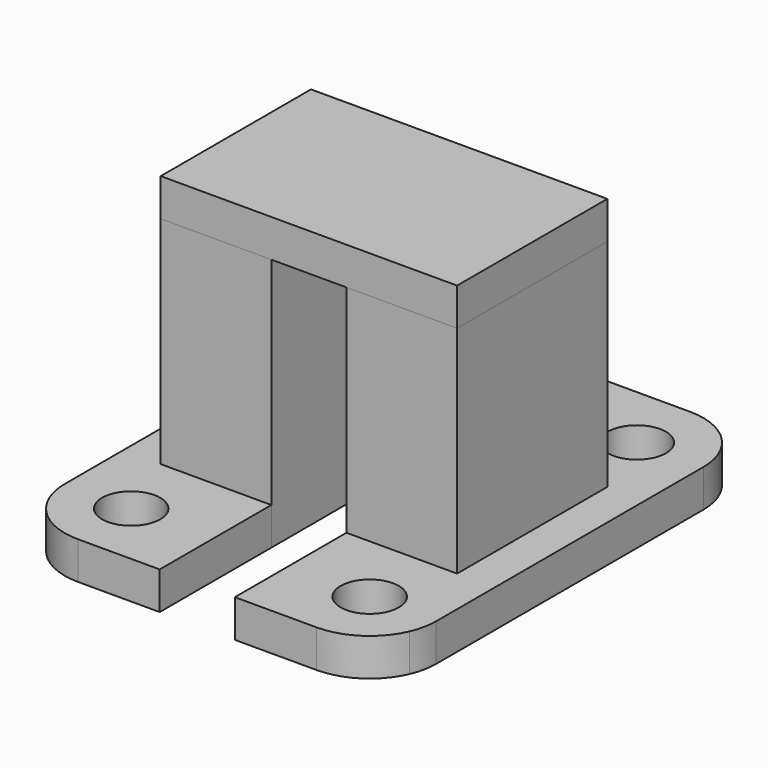
from build123d import *

# Parameters (mm, degrees)
F0_R     = 1.55
F1_DEPTH = 2
F0_W     = 5.08
F0_H     = 10
F0_W_2   = 0.81
F2_DEPTH = 13.5
F3_START = 13.5
F0_W_3   = 4
F3_DEPTH = 2


with BuildPart() as f1:
    # F0 (on Top) → F1 (new body)
    with BuildSketch(Plane.XY):
        with BuildLine():
            ThreePointArc((0, -12.43), (2.5031580054, -11.3931580054), (3.54, -8.89))
            Line((3.54, -8.89), (3.54, -5))
            Line((3.54, -5), (-1.54, -5))
            Line((-1.54, -5), (-1.54, 5))
            Line((-1.54, 5), (3.54, 5))
            Line((3.54, 5), (3.54, 8.89))
            ThreePointArc((3.54, 8.89), (2.5031580054, 11.3931580054), (0, 12.43))
            ThreePointArc((0, 12.43), (-2.5031580054, 11.3931580054), (-3.54, 8.89))
            Line((-3.54, 8.89), (-3.54, -8.89))
            ThreePointArc((-3.54, -8.89), (-3.4661424948, -9.6093442887), (-3.2476518612, -10.2986722077))
            ThreePointArc((-3.2476518612, -10.2986722077), (-1.9422796381, -11.8495860872), (0, -12.43))
        make_face()
        with Locations((0, -8.89)):
            Circle(F0_R, mode=Mode.SUBTRACT)
        with Locations((0, 8.89)):
            Circle(F0_R, mode=Mode.SUBTRACT)
        with BuildLine():
            Line((3.54, 8.89), (3.54, 5))
            Line((3.54, 5), (4.35, 5))
            Line((4.35, 5), (4.35, 12.43))
            Line((4.35, 12.43), (0, 12.43))
            ThreePointArc((0, 12.43), (2.5031580054, 11.3931580054), (3.54, 8.89))
        make_face()
        with BuildLine():
            Line((3.54, -5), (3.54, -8.89))
            ThreePointArc((3.54, -8.89), (2.5031580054, -11.3931580054), (0, -12.43))
            Line((0, -12.43), (4.35, -12.43))
            Line((4.35, -12.43), (4.35, -5))
            Line((4.35, -5), (3.54, -5))
        make_face()
    extrude(amount=F1_DEPTH)


with BuildPart() as f1b:
    # F0 (on Top) → F1, piece 2 (new body)
    with BuildSketch(Plane.XY):
        with BuildLine():
            Line((9.16, -5), (8.35, -5))
            Line((8.35, -5), (8.35, -12.43))
            Line((8.35, -12.43), (12.7, -12.43))
            ThreePointArc((12.7, -12.43), (10.1968419946, -11.3931580054), (9.16, -8.89))
            Line((9.16, -8.89), (9.16, -5))
        make_face()
        with BuildLine():
            Line((14.24, -5), (9.16, -5))
            Line((9.16, -5), (9.16, -8.89))
            ThreePointArc((9.16, -8.89), (10.1968419946, -11.3931580054), (12.7, -12.43))
            ThreePointArc((12.7, -12.43), (14.6422796381, -11.8495860872), (15.9476518612, -10.2986722077))
            ThreePointArc((15.9476518612, -10.2986722077), (16.1661424948, -9.6093442887), (16.24, -8.89))
            Line((16.24, -8.89), (16.24, 8.89))
            ThreePointArc((16.24, 8.89), (15.2031580054, 11.3931580054), (12.7, 12.43))
            ThreePointArc((12.7, 12.43), (10.1968419946, 11.3931580054), (9.16, 8.89))
            Line((9.16, 8.89), (9.16, 5))
            Line((9.16, 5), (14.24, 5))
            Line((14.24, 5), (14.24, -5))
        make_face()
        with Locations((12.7, -8.89)):
            Circle(F0_R, mode=Mode.SUBTRACT)
        with Locations((12.7, 8.89)):
            Circle(F0_R, mode=Mode.SUBTRACT)
        with BuildLine():
            Line((8.35, 12.43), (8.35, 5))
            Line((8.35, 5), (9.16, 5))
            Line((9.16, 5), (9.16, 8.89))
            ThreePointArc((9.16, 8.89), (10.1968419946, 11.3931580054), (12.7, 12.43))
            Line((12.7, 12.43), (8.35, 12.43))
        make_face()
    extrude(amount=F1_DEPTH)


with BuildPart() as f2:
    # F0 (on Top) → F2 (new body)
    with BuildSketch(Plane.XY):
        with Locations((1, 0)):
            Rectangle(F0_W, F0_H)
        with Locations((3.945, 0)):
            Rectangle(F0_W_2, F0_H)
    extrude(amount=F2_DEPTH)


with BuildPart() as f2b:
    # F0 (on Top) → F2, piece 2 (new body)
    with BuildSketch(Plane.XY):
        with Locations((11.7, 0)):
            Rectangle(F0_W, F0_H)
        with Locations((8.755, 0)):
            Rectangle(F0_W_2, F0_H)
    extrude(amount=F2_DEPTH)


with BuildPart() as f3:
    # F0 (on Top) → F3 (new body)
    with BuildSketch(Plane.XY.offset(F3_START)):
        with Locations((11.7, 0)):
            Rectangle(F0_W, F0_H)
        with Locations((6.35, 0)):
            Rectangle(F0_W_3, F0_H)
        with Locations((1, 0)):
            Rectangle(F0_W, F0_H)
        with Locations((3.945, 0)):
            Rectangle(F0_W_2, F0_H)
        with Locations((8.755, 0)):
            Rectangle(F0_W_2, F0_H)
    extrude(amount=F3_DEPTH)


solid = Compound([f1.part, f1b.part, f2.part, f2b.part, f3.part])
